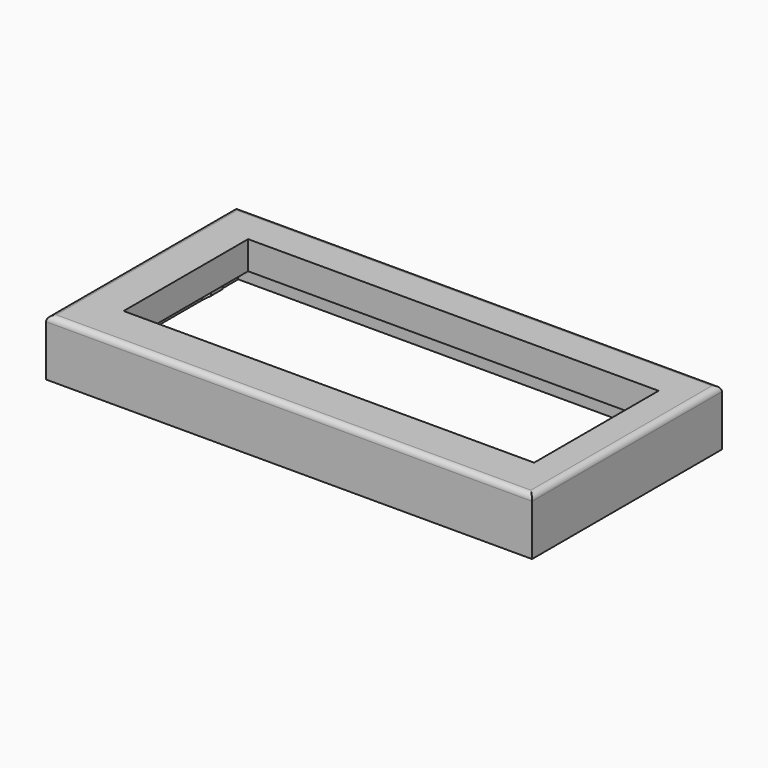
from build123d import *

# Parameters (mm, degrees)
SKETCH_W               = 86
SKETCH_H               = 42
PAD_DEPTH              = 10
FILLET_R               = 1
SKETCH001_W            = 72.65
SKETCH001_H            = 27.54
POCKET_DEPTH           = 10
SKETCH002_W            = 82
SKETCH002_H            = 38
POCKET001_DEPTH        = 5
SKETCH003_W            = 4
SKETCH003_H            = 2
PAD001_DEPTH           = 1.5
PAD001_TAPER           = 25
LINEARPATTERN_COUNT    = 2
LINEARPATTERN_PITCH    = 27
SKETCH004_W            = 4
SKETCH004_H            = 2
PAD002_DEPTH           = 1
PAD002_TAPER           = 35
LINEARPATTERN001_COUNT = 2
LINEARPATTERN001_PITCH = 27


with BuildPart() as part:
    # Sketch → Pad (new body)
    with BuildSketch(Plane.XY):
        with Locations((43, 21)):
            Rectangle(SKETCH_W, SKETCH_H)
    extrude(amount=PAD_DEPTH)

    # Fillet
    fillet_edges = [part.edges().sort_by_distance(p)[0] for p in [
        (43, 42, 10),
        (86, 21, 10),
        (43, 0, 10),
        (0, 21, 10),
    ]]
    fillet(fillet_edges, radius=FILLET_R)

    # Sketch001 (on Face8 of Fillet) → Pocket (cut)
    with BuildSketch(Plane.XY.offset(10)):
        with Locations((43.875, 21.48)):
            Rectangle(SKETCH001_W, SKETCH001_H)
    extrude(amount=-POCKET_DEPTH, mode=Mode.SUBTRACT)

    # Sketch002 (on Face4 of Pocket) → Pocket001 (cut)
    with BuildSketch(Plane(origin=(0, 0, 0), x_dir=(1, 0, 0), z_dir=(0, 0, -1))):
        with Locations((43, -21)):
            Rectangle(SKETCH002_W, SKETCH002_H)
    extrude(amount=-POCKET001_DEPTH, mode=Mode.SUBTRACT)

    # Sketch003 (on Face11 of Pocket001) → Pad001 (join)
    with BuildSketch(Plane(origin=(84, 0, 0), x_dir=(0, -1, 0), z_dir=(-1, 0, 0))):
        with Locations((-7, 1)):
            Rectangle(SKETCH003_W, SKETCH003_H)
    pad001 = extrude(amount=PAD001_DEPTH, taper=PAD001_TAPER)

    # LinearPattern: Pad001 ×2
    with Locations(*[(0, i * LINEARPATTERN_PITCH, 0) for i in range(1, LINEARPATTERN_COUNT)]):
        add(pad001)

    # Sketch004 (on Face15 of LinearPattern) → Pad002 (join)
    with BuildSketch(Plane.YZ.offset(2)):
        with Locations((7, 1)):
            Rectangle(SKETCH004_W, SKETCH004_H)
    pad002 = extrude(amount=PAD002_DEPTH, taper=PAD002_TAPER)

    # LinearPattern001: Pad002 ×2
    with Locations(*[(0, i * LINEARPATTERN001_PITCH, 0) for i in range(1, LINEARPATTERN001_COUNT)]):
        add(pad002)


solid = part.part
